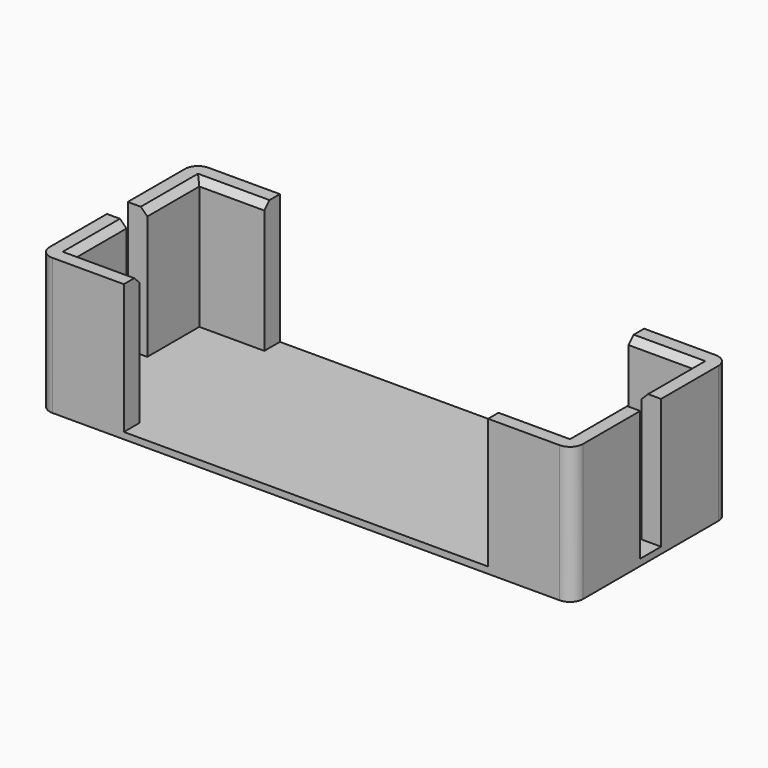
from build123d import *

# Parameters (mm, degrees)
SKETCH_W     = 82
SKETCH_H     = 30
PAD_DEPTH    = 1
PAD001_DEPTH = 20
FILLET_R     = 2
FILLET001_R  = 2
CHAMFER_SIZE = 1


with BuildPart() as part:
    # Sketch → Pad (new body)
    with BuildSketch(Plane.XY):
        Rectangle(SKETCH_W, SKETCH_H)
    extrude(amount=PAD_DEPTH)

    # Sketch001 → Pad001 (new body)
    with BuildSketch(Plane.XY.offset(1)):
        Polygon((-41, 15), (-41, 2), (-38, 2), (-38, 12), (-28, 12), (-28, 15), align=None)
        Polygon((28, -12), (28, -15), (41, -15), (41, -2), (38, -2), (38, -12), align=None)
        Polygon((-41, -2), (-41, -15), (-28, -15), (-28, -12), (-38, -12), (-38, -2), align=None)
        Polygon((38, 2), (41, 2), (41, 15), (28, 15), (28, 12), (38, 12), align=None)
    extrude(amount=PAD001_DEPTH)

    # Fillet
    fillet_edges = [part.edges().sort_by_distance(p)[0] for p in [
        (41, -15, 11),
        (41, 15, 11),
        (-41, 15, 11),
    ]]
    fillet(fillet_edges, radius=FILLET_R)

    # Fillet001
    fillet001_edges = [part.edges().sort_by_distance(p)[0] for p in [
        (-41, -15, 11),
    ]]
    fillet(fillet001_edges, radius=FILLET001_R)

    # Chamfer
    chamfer_edges = [part.edges().sort_by_distance(p)[0] for p in [
        (-38, 7, 21),
        (-33, 12, 21),
        (-38, -7, 21),
        (-33, -12, 21),
        (33, -12, 21),
        (38, -7, 21),
        (38, 7, 21),
        (33, 12, 21),
    ]]
    chamfer(chamfer_edges, length=CHAMFER_SIZE)


solid = part.part
